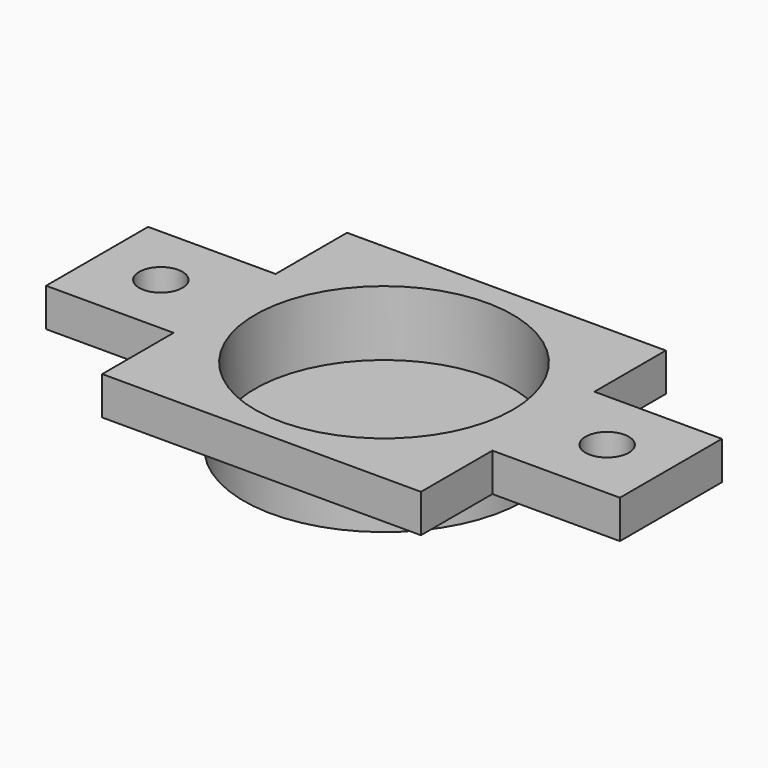
from build123d import *

# Parameters (mm, degrees)
PAD_DEPTH       = 3
SKETCH001_R     = 11
PAD001_DEPTH    = 3
SKETCH002_R     = 10.1
POCKET_DEPTH    = 5.1
SKETCH003_R     = 1.7
POCKET001_DEPTH = 5


with BuildPart() as part:
    # Sketch → Pad (new body)
    with BuildSketch(Plane.XY):
        Polygon((-12.5, -5), (-22.5, -5), (-22.5, 5), (-12.5, 5), (-12.5, 12), (12.5, 12), (12.5, 5), (22.5, 5), (22.5, -5), (12.5, -5), (12.5, -12), (-12.5, -12), align=None)
    extrude(amount=PAD_DEPTH)

    # Sketch001 (on Face13 of Pad) → Pad001 (join)
    with BuildSketch(Plane(origin=(0, 0, 0), x_dir=(1, 0, 0), z_dir=(0, 0, -1))):
        Circle(SKETCH001_R)
    extrude(amount=PAD001_DEPTH)

    # Sketch002 (on Face5 of Pad001) → Pocket (cut)
    with BuildSketch(Plane.XY.offset(3)):
        Circle(SKETCH002_R)
    extrude(amount=-POCKET_DEPTH, mode=Mode.SUBTRACT)

    # Sketch003 (on Face5 of Pocket) → Pocket001 (cut)
    with BuildSketch(Plane.XY.offset(3)):
        with Locations((-17.5, 0)):
            Circle(SKETCH003_R)
        with Locations((17.5, 0)):
            Circle(SKETCH003_R)
    extrude(amount=-POCKET001_DEPTH, mode=Mode.SUBTRACT)


solid = part.part
